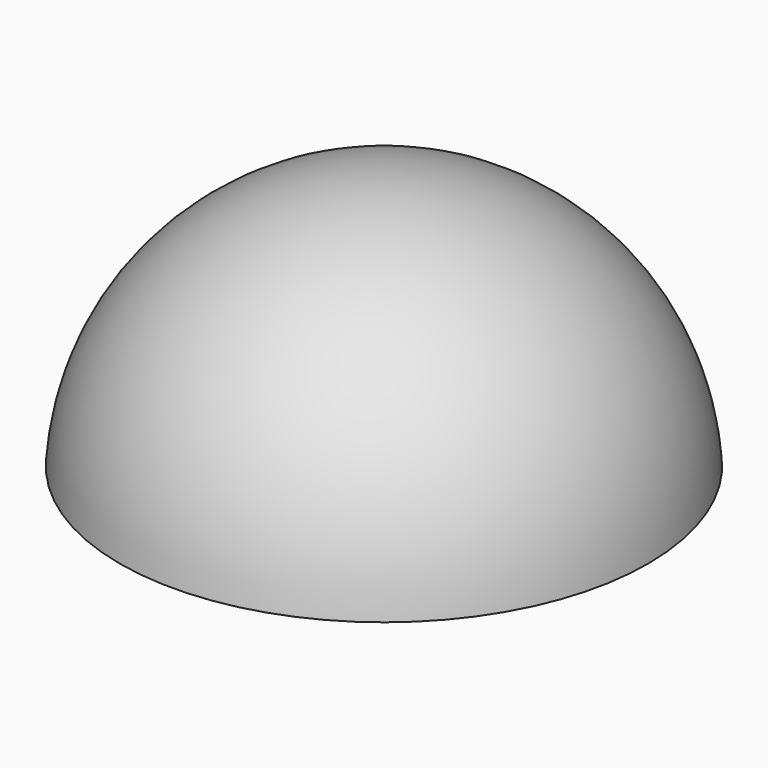
from build123d import *

# Parameters (mm, degrees)
F3_D     = 22
F3_DEPTH = 49.9109188539


with BuildPart() as f1:
    # F0 (on Front) → F1 (revolve)
    with BuildSketch(Plane.XZ):
        with BuildLine():
            Line((0, 46), (0, 50))
            ThreePointArc((0, 50), (-34.278273002, 36.4005494464), (-49.9099188539, 3))
            Line((-49.9099188539, 3), (-45.9020696701, 3))
            ThreePointArc((-45.9020696701, 3), (-31.448370387, 33.5708206632), (0, 46))
        make_face()
    revolve(axis=Axis((0, 0, 25), (0, 0, -1)))

    # F3 (through all, one way)
    with BuildSketch(Plane.XZ):
        with Locations((0, 0)):
            Circle(F3_D / 2)
    extrude(amount=-F3_DEPTH, mode=Mode.SUBTRACT)


solid = f1.part
